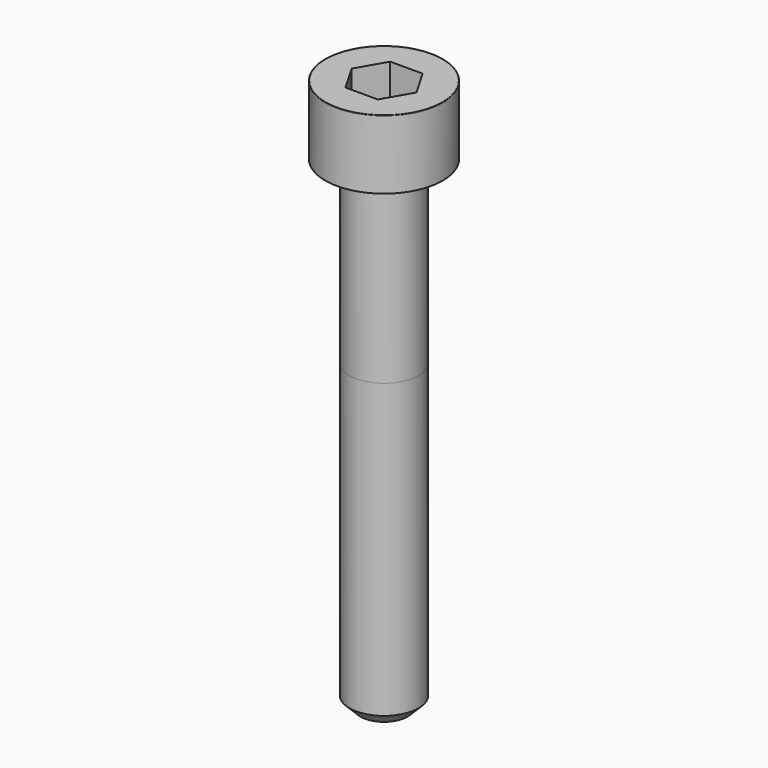
from build123d import *

# Parameters (mm, degrees)
POCKET_DEPTH = 4.06


with BuildPart() as part:
    # Sketch → Revolve (revolve)
    with BuildSketch(Plane.YZ):
        with BuildLine():
            Line((2.499, 0), (4.25, 0))
            Line((4.25, 0), (4.25, 4.97229))
            ThreePointArc((4.25, 4.97229), (4.241884, 4.991884), (4.22229, 5))
            Line((4.22229, 5), (0, 5))
            Line((0, -35), (0, 5))
            Line((1.7, -35), (0, -35))
            Line((2.5, -34.2), (1.7, -35))
            Line((2.5, -13), (2.5, -34.2))
            Line((2.499, 0), (2.5, -13))
        make_face()
    revolve(axis=Axis((0, 0, 0), (0, 0, 1)))

    # Sketch001 → Pocket (cut)
    with BuildSketch(Plane.XY.offset(5)):
        Polygon((2.344042, 0), (1.172021, 2.03), (-1.172021, 2.03), (-2.344042, 0), (-1.172021, -2.03), (1.172021, -2.03), align=None)
    extrude(amount=-POCKET_DEPTH, mode=Mode.SUBTRACT)


solid = part.part
